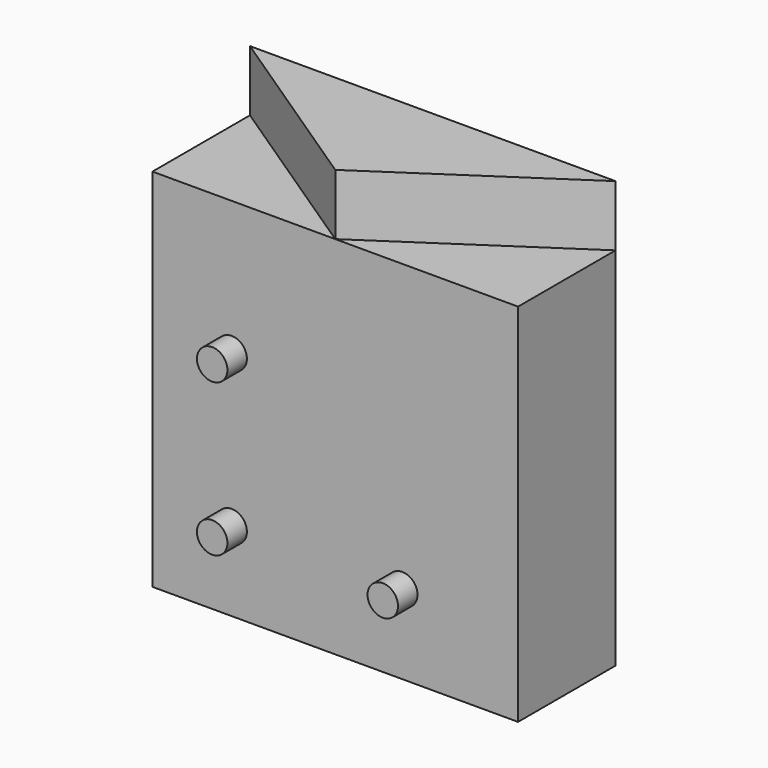
from build123d import *

# Parameters (mm, degrees)
F0_W          = 20
F0_H          = 60
F1_DEPTH      = 30
F1_DEPTH_BACK = 30
F3_DEPTH      = 10
F4_R          = 2.5
F5_DEPTH      = 4


with BuildPart() as f1:
    # F0 (on Right) → F1 (new body, two sides)
    with BuildSketch(Plane.YZ) as f1_sk:
        Rectangle(F0_W, F0_H)
    extrude(amount=F1_DEPTH)
    extrude(f1_sk.sketch, amount=-F1_DEPTH_BACK)

    # F2 (on face) → F3 (join)
    with BuildSketch(Plane.XY.offset(30)):
        Polygon((30, 10), (-30, 10), (0, -10), align=None)
    extrude(amount=F3_DEPTH)

    # F4 (on face) → F5 (join)
    with BuildSketch(Plane.XZ.offset(10)):
        with Locations((-17, 8)):
            Circle(F4_R)
        with Locations((-17, -17)):
            Circle(F4_R)
        with Locations((11, -17)):
            Circle(F4_R)
    extrude(amount=F5_DEPTH)


solid = f1.part
